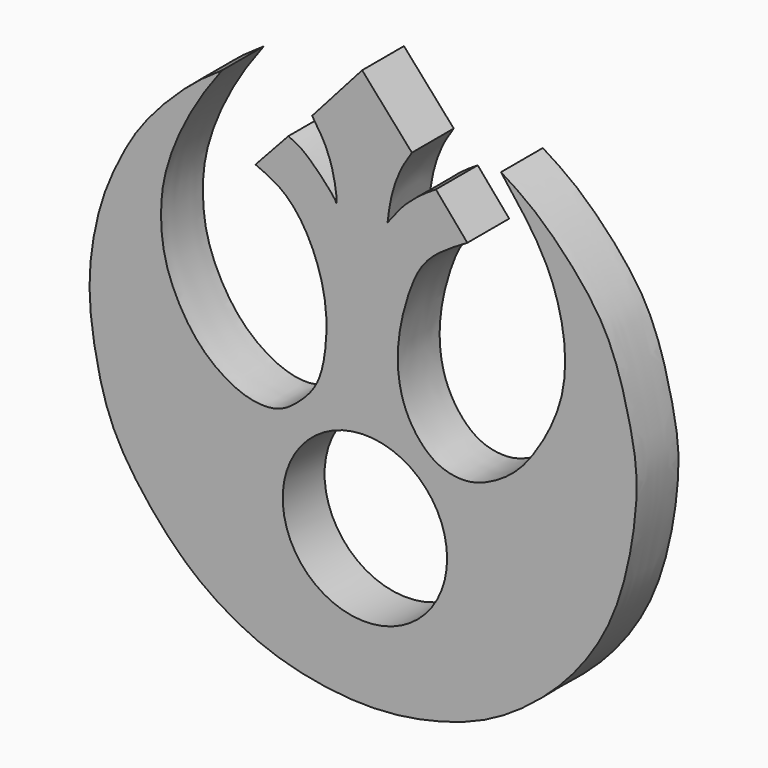
from build123d import *

# Parameters (mm, degrees)
F0_R     = 11.176
F1_DEPTH = 7.112


with BuildPart() as f1:
    # F0 (on Front) → F1 (new body)
    with BuildSketch(Plane.XZ):
        with BuildLine():
            add(Edge.make_bspline(
                [(-19.4416455925, 48.4873242676), (-20.1171061071, 47.5856928657), (-21.6985018679, 45.4747832774), (-25.0857664083, 39.8964262855), (-27.4477816863, 33.4748511401), (-27.8735067811, 28.3055896508), (-27.3022480414, 22.4522820177), (-24.1461714308, 16.3240058545), (-20.5913564745, 12.6379554409), (-16.0377415433, 10.1405526399), (-11.6383463262, 10.0728524121), (-8.7417357993, 12.355066401), (-6.0287306854, 15.2283198196), (-5.0827529008, 20.954612759), (-5.3042042581, 26.4509039265), (-7.4248735384, 32.53061339), (-10.752410807, 36.9023278003), (-13.5515376511, 38.123766515), (-14.881119132, 38.7039482594)],
                knots=[0, 0, 0, 0, 0.0524978259, 0.122908501, 0.1950579944, 0.2571068885, 0.3233053123, 0.3948700341, 0.4571682616, 0.5189299024, 0.5746214981, 0.6259097457, 0.6796472292, 0.7445444364, 0.8096714528, 0.8790299752, 0.9425394011, 1, 1, 1, 1], degree=3))
            add(Edge.make_bspline(
                [(-19.4416455925, 48.4873242676), (-20.5534940127, 47.7471724398), (-23.0074671804, 46.1135750066), (-27.4887526256, 41.9280168435), (-31.1657422901, 37.485532628), (-33.5645661344, 33.0430995248), (-35.9393362124, 27.7860961197), (-37.3970493708, 20.7543114529), (-37.5428225989, 15.018988345), (-36.6891496839, 8.7648527781), (-34.5060889628, -0.2375385096), (-28.0444952226, -8.4342642993), (-24.620023838, -11.852135994), (-20.7006612433, -15.1094733807), (-12.9758685653, -19.4348087236), (-2.4829372001, -21.4131848406), (6.333114605, -20.9912227683), (15.5301854527, -18.4203234839), (22.2070044139, -14.2434771475), (28.4396099506, -8.6167110841), (34.0178693757, -0.2593799839), (36.4791028278, 9.8227927103), (37.137990857, 17.1889665769), (36.6090600211, 21.9007165807), (34.6451689495, 30.2577034344), (31.4144481214, 37.3265875639), (23.666305486, 45.4353964444), (20.0394679676, 47.6897164626), (18.4964500368, 48.6488044262)],
                knots=[0, 0, 0, 0, 0.0291554764, 0.0643493802, 0.0985638311, 0.1301515101, 0.1642818457, 0.202255971, 0.2361021885, 0.2713239878, 0.3148535567, 0.360453987, 0.3913820103, 0.4225949699, 0.4646926411, 0.5110991648, 0.5534660199, 0.5968297046, 0.6364788636, 0.6772448888, 0.7221617448, 0.7681615186, 0.8060882666, 0.836925777, 0.8776627316, 0.9182285261, 0.9652107794, 1, 1, 1, 1], degree=3))
            add(Edge.make_bspline(
                [(18.4964500368, 48.6488044262), (19.6965086231, 47.1183621195), (22.1210860081, 44.0262832423), (25.3747271262, 38.8580570834), (27.4694955303, 31.5188183872), (27.1758419468, 23.8424774295), (23.6017709983, 16.9804135737), (20.2679275163, 12.8363121216), (15.6830921869, 10.2616549729), (12.4208955274, 9.9924868839), (8.7132453, 11.0712852974), (4.8664365295, 16.0320394746), (4.0864391494, 23.1480401334), (5.7747574686, 30.0607325588), (8.0749312413, 35.2723459381), (11.9135735963, 37.5230329478), (13.9276748523, 38.7039482594)],
                knots=[0, 0, 0, 0, 0.0709901058, 0.1434271685, 0.2239816078, 0.3053018494, 0.3860634705, 0.454259628, 0.5200046805, 0.5721425048, 0.6276805902, 0.6990739253, 0.7774526565, 0.8556517667, 0.9242617751, 1, 1, 1, 1], degree=3))
            Line((13.9276748523, 38.7039482594), (9.6519440413, 43.7050871551))
            add(Edge.make_bspline(
                [(3.0791440513, 37.5983640552), (3.7281124191, 38.4769966644), (5.0191010998, 40.2248549718), (7.4783353346, 42.3378729821), (8.9562364097, 43.2674824789), (9.6519440413, 43.7050871551)],
                knots=[0, 0, 0, 0, 0.3485288609, 0.6933262646, 1, 1, 1, 1], degree=3))
            add(Edge.make_bspline(
                [(6.3891159371, 47.046083957), (5.8383931446, 46.2081762425), (4.6807732866, 44.4468933927), (3.4704824125, 40.8482480418), (3.2065842763, 38.6566961469), (3.0791440513, 37.5983640552)],
                knots=[0, 0, 0, 0, 0.319368688, 0.6713133, 1, 1, 1, 1], degree=3))
            Line((6.3891159371, 47.046083957), (-0.3787067253, 54.7096505761))
            Line((-0.3787067253, 54.7096505761), (-7.1797054261, 47.046083957))
            add(Edge.make_bspline(
                [(-7.1797054261, 47.046083957), (-6.5874681612, 46.1684634853), (-5.4042828109, 44.4151329422), (-4.3553350669, 41.6251863394), (-3.8145800665, 38.5484118959), (-3.8569040401, 37.865837549), (-3.8715305272, 37.6299507916)],
                knots=[0, 0, 0, 0, 0.2855584047, 0.5704952072, 0.8515700256, 1, 1, 1, 1], degree=3))
            add(Edge.make_bspline(
                [(-10.4155046865, 43.5557439923), (-9.7270512065, 43.2662552699), (-8.0442230237, 42.5586406019), (-4.1321181862, 38.3200565688), (-3.924056682, 37.7690540897), (-3.8715305272, 37.6299507916)],
                knots=[0, 0, 0, 0, 0.3410480938, 0.8336443356, 1, 1, 1, 1], degree=3))
            Line((-10.4155046865, 43.5557439923), (-14.881119132, 38.7039482594))
        make_face()
        Circle(F0_R, mode=Mode.SUBTRACT)
    extrude(amount=F1_DEPTH)


solid = f1.part
